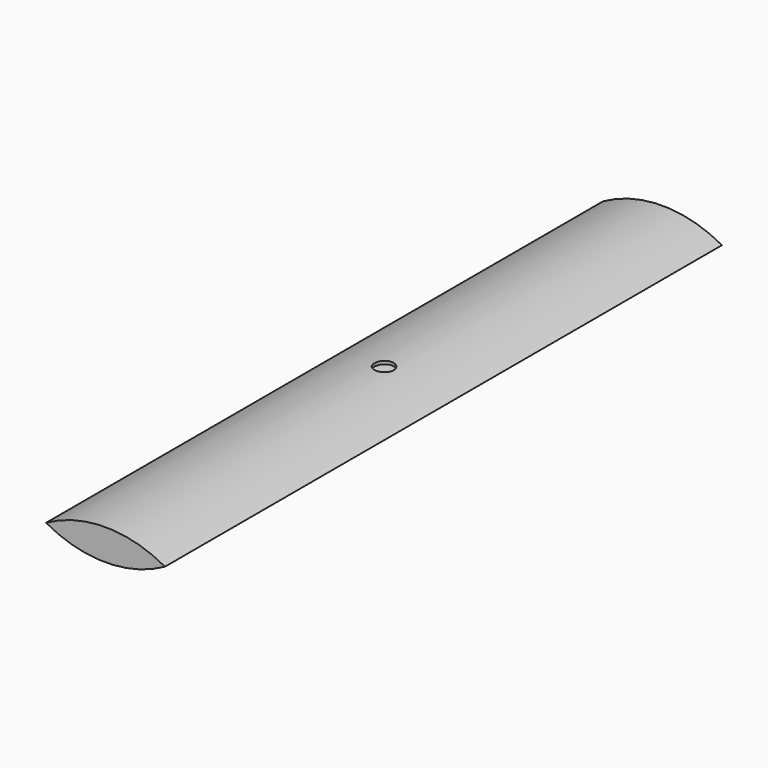
from build123d import *

# Parameters (mm, degrees)
F1_DEPTH = 230
F3_DEPTH = 25
F3_TAPER = -3
F5_DEPTH = 230
F6_DEPTH = 225
F7_R     = 6.35
F8_DEPTH = 25


with BuildPart() as f1:
    # F0 (on Front) → F1 (new body, symmetric)
    with BuildSketch(Plane.XZ):
        with BuildLine():
            ThreePointArc((39.2689383209, 0), (0, 10.2623792125), (-39.2689383209, 0))
            ThreePointArc((-39.2689383209, 0), (0, -10.2623792125), (39.2689383209, 0))
        make_face()
        with BuildLine():
            ThreePointArc((35, 0), (0, -8.2623792125), (-35, 0))
            ThreePointArc((-35, 0), (0, 8.2623792125), (35, 0))
        make_face(mode=Mode.SUBTRACT)
    extrude(amount=F1_DEPTH, both=True)

    # F2 (on Top) → F3 (cut)
    with BuildSketch(Plane.XY):
        with BuildLine():
            ThreePointArc((7.5, 191.6670488758), (5.3033008589, 196.9703497347), (0, 199.1670488758))
            Line((0, 199.1670488758), (0, 191.6670488758))
            Line((0, 191.6670488758), (0, 184.1670488758))
            ThreePointArc((0, 184.1670488758), (5.3033008589, 186.3637480169), (7.5, 191.6670488758))
        make_face()
        with BuildLine():
            ThreePointArc((7.5, -191.6679511242), (5.3033008589, -186.3646502653), (0, -184.1679511242))
            ThreePointArc((0, -184.1679511242), (-5.3033008589, -196.9712519831), (7.5, -191.6679511242))
        make_face()
        with BuildLine():
            ThreePointArc((7.5, -115.0009511242), (5.3033008589, -109.6976502653), (0, -107.5009511242))
            Line((0, -107.5009511242), (0, -115.0009511242))
            Line((0, -115.0009511242), (0, -122.5009511242))
            ThreePointArc((0, -122.5009511242), (5.3033008589, -120.3042519831), (7.5, -115.0009511242))
        make_face()
        with BuildLine():
            Line((0, -115.0009511242), (0, -107.5009511242))
            ThreePointArc((0, -107.5009511242), (-7.5, -115.0009511242), (0, -122.5009511242))
            Line((0, -122.5009511242), (0, -115.0009511242))
        make_face()
        with BuildLine():
            ThreePointArc((7.5, -38.3339511242), (5.3033008589, -33.0306502653), (0, -30.8339511242))
            Line((0, -30.8339511242), (0, -38.3339511242))
            Line((0, -38.3339511242), (0, -45.8339511242))
            ThreePointArc((0, -45.8339511242), (5.3033008589, -43.6372519831), (7.5, -38.3339511242))
        make_face()
        with BuildLine():
            Line((0, -38.3339511242), (0, -30.8339511242))
            ThreePointArc((0, -30.8339511242), (-7.5, -38.3339511242), (0, -45.8339511242))
            Line((0, -45.8339511242), (0, -38.3339511242))
        make_face()
        with BuildLine():
            ThreePointArc((7.5, 38.3330488758), (5.3033008589, 43.6363497347), (0, 45.8330488758))
            Line((0, 45.8330488758), (0, 38.3330488758))
            Line((0, 38.3330488758), (0, 30.8330488758))
            ThreePointArc((0, 30.8330488758), (5.3033008589, 33.0297480169), (7.5, 38.3330488758))
        make_face()
        with BuildLine():
            Line((0, 38.3330488758), (0, 45.8330488758))
            ThreePointArc((0, 45.8330488758), (-7.5, 38.3330488758), (0, 30.8330488758))
            Line((0, 30.8330488758), (0, 38.3330488758))
        make_face()
        with BuildLine():
            ThreePointArc((7.5, 115.0000488758), (5.3033008589, 120.3033497347), (0, 122.5000488758))
            Line((0, 122.5000488758), (0, 115.0000488758))
            Line((0, 115.0000488758), (0, 107.5000488758))
            ThreePointArc((0, 107.5000488758), (5.3033008589, 109.6967480169), (7.5, 115.0000488758))
        make_face()
        with BuildLine():
            Line((0, 115.0000488758), (0, 122.5000488758))
            ThreePointArc((0, 122.5000488758), (-7.5, 115.0000488758), (0, 107.5000488758))
            Line((0, 107.5000488758), (0, 115.0000488758))
        make_face()
        with BuildLine():
            Line((0, 191.6670488758), (0, 199.1670488758))
            ThreePointArc((0, 199.1670488758), (-7.5, 191.6670488758), (0, 184.1670488758))
            Line((0, 184.1670488758), (0, 191.6670488758))
        make_face()
    extrude(amount=-F3_DEPTH, taper=F3_TAPER, mode=Mode.SUBTRACT)

    # F4 (on Front) → F5 (join, symmetric)
    with BuildSketch(Plane.XZ):
        with BuildLine():
            Line((35, 0), (-35, 0))
            ThreePointArc((-35, 0), (0, -8.2623797312), (35, 0))
        make_face()
        with BuildLine():
            ThreePointArc((35, 0), (0, 8.2623786938), (-35, 0))
            Line((-35, 0), (35, 0))
        make_face()
    extrude(amount=F5_DEPTH, both=True)

    # F4 (on Front) → F6 (cut, symmetric)
    with BuildSketch(Plane.XZ):
        with BuildLine():
            Line((35, 0), (-35, 0))
            ThreePointArc((-35, 0), (0, -8.2623797312), (35, 0))
        make_face()
        with BuildLine():
            ThreePointArc((35, 0), (0, 8.2623786938), (-35, 0))
            Line((-35, 0), (35, 0))
        make_face()
    extrude(amount=F6_DEPTH, both=True, mode=Mode.SUBTRACT)

    # F7 (on Top) → F8 (cut)
    with BuildSketch(Plane.XY):
        Circle(F7_R)
    extrude(amount=F8_DEPTH, mode=Mode.SUBTRACT)


solid = f1.part
